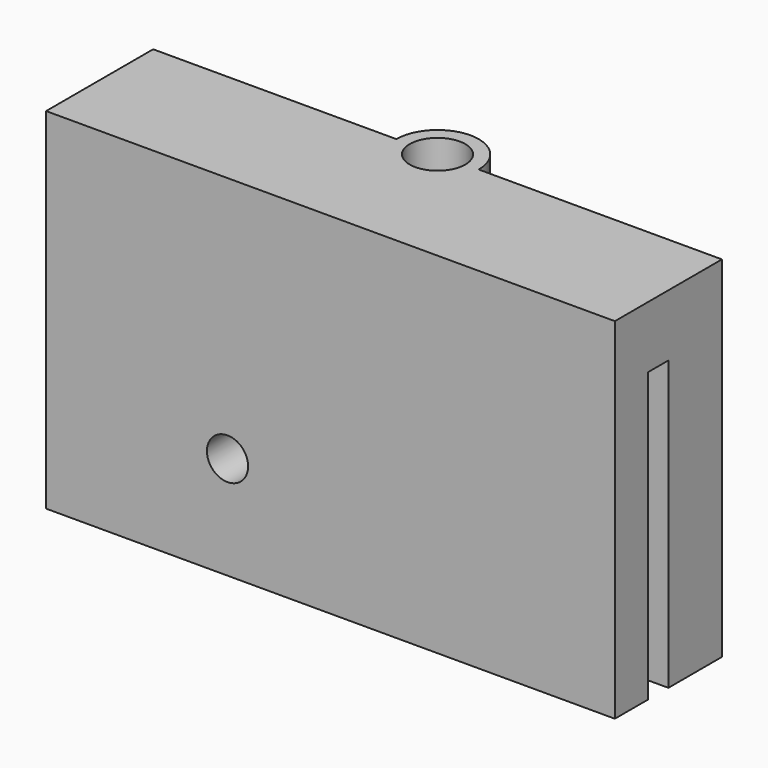
from build123d import *

# Parameters (mm, degrees)
F1_DEPTH = 14
F2_R     = 1.35
F3_DEPTH = 17
F5_R     = 1
F6_DEPTH = 25


with BuildPart() as f1:
    # F0 (on Top) → F1 (new body)
    with BuildSketch(Plane.XY):
        Polygon((-20.125, 1.25), (-20.5, 0), (-22.5, 0), (-22.5, -1.25), (-20.5, -1.25), (5.125, -1.25), (5.125, 0), (2.55, 0), (2.175, 1.25), (0.375, 1.25), (0, 0), (-2.575, 0), (-2.95, 1.25), (-4.75, 1.25), (-5.125, 0), (-7.7, 0), (-8.075, 1.25), (-9.875, 1.25), (-10.25, 0), (-12.825, 0), (-13.2, 1.25), (-15, 1.25), (-15.375, 0), (-17.95, 0), (-18.325, 1.25), align=None)
    extrude(amount=F1_DEPTH)


with BuildPart() as f3:
    # F2 (on Top) → F3 (new body)
    with BuildSketch(Plane.XY):
        with BuildLine():
            Line((5.125, -3.25), (5.125, 3.25))
            Line((5.125, 3.25), (-6.6875, 3.25))
            ThreePointArc((-6.6875, 3.25), (-8.6875, 5.25), (-10.6875, 3.25))
            Line((-10.6875, 3.25), (-22.5, 3.25))
            Line((-22.5, 3.25), (-22.5, -3.25))
            Line((-22.5, -3.25), (5.125, -3.25))
        make_face()
        with Locations((-8.6875, 3.25)):
            Circle(F2_R, mode=Mode.SUBTRACT)
    extrude(amount=F3_DEPTH)

    # F4: cut F1
    add(f1.part, mode=Mode.SUBTRACT)

    # F5 (on face) → F6 (cut)
    with BuildSketch(Plane.XZ.offset(3.25)):
        with Locations((-13.6875, 5)):
            Circle(F5_R)
    extrude(amount=-F6_DEPTH, mode=Mode.SUBTRACT)


solid = f3.part
